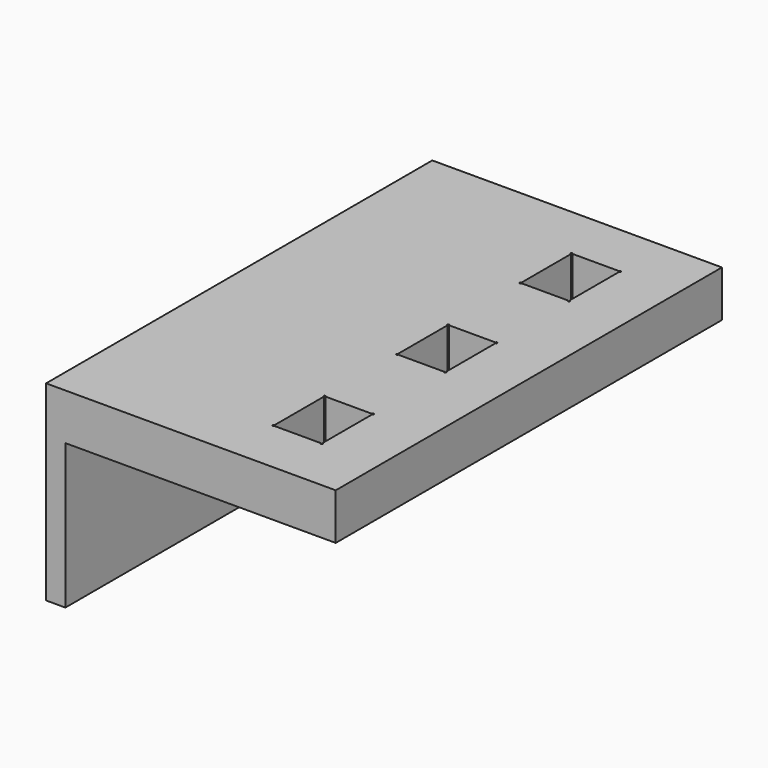
from build123d import *

# Parameters (mm, degrees)
F2_DEPTH = 50
F4_R     = 2
F5_DEPTH = 2
F6_DEPTH = 4.8


with BuildPart() as f2:
    # F1 (on Front) → F2 (new body)
    with BuildSketch(Plane.XZ):
        Polygon((0, 19.8), (0, 0), (2, 0), (2, 15), (30, 15), (30, 19.8), align=None)
    extrude(amount=-F2_DEPTH)

    # F4 (on face) → F5 (cut, through all)
    with BuildSketch(Plane(origin=(0, 0, 0), x_dir=(0, -1, 0), z_dir=(-1, 0, 0))):
        with Locations((-25, 10)):
            Circle(F4_R)
    extrude(amount=-F5_DEPTH, mode=Mode.SUBTRACT)

    # F3 (on face) → F6 (cut, through all)
    with BuildSketch(Plane.XY.offset(19.8)):
        with BuildLine():
            ThreePointArc((19, 21.8), (18.9292893219, 21.6292893219), (19.1, 21.7))
            Line((19.1, 21.7), (19, 21.7))
            Line((19, 21.7), (19, 21.8))
        make_face()
        with BuildLine():
            ThreePointArc((19, 21.8), (19.0707106781, 21.7707106781), (19.1, 21.7))
            Line((19.1, 21.7), (23.9, 21.7))
            ThreePointArc((23.9, 21.7), (23.9292893219, 21.7707106781), (24, 21.8))
            Line((24, 21.8), (24, 28.2))
            ThreePointArc((24, 28.2), (23.9292893219, 28.2292893219), (23.9, 28.3))
            Line((23.9, 28.3), (19.1, 28.3))
            ThreePointArc((19.1, 28.3), (19.0707106781, 28.2292893219), (19, 28.2))
            Line((19, 28.2), (19, 21.8))
        make_face()
        with BuildLine():
            Line((19, 21.7), (19.1, 21.7))
            ThreePointArc((19.1, 21.7), (19.0707106781, 21.7707106781), (19, 21.8))
            Line((19, 21.8), (19, 21.7))
        make_face()
        with BuildLine():
            ThreePointArc((24, 21.8), (23.9292893219, 21.7707106781), (23.9, 21.7))
            Line((23.9, 21.7), (24, 21.7))
            Line((24, 21.7), (24, 21.8))
        make_face()
        with BuildLine():
            Line((24, 21.7), (23.9, 21.7))
            ThreePointArc((23.9, 21.7), (24, 21.6), (24.1, 21.7))
            ThreePointArc((24.1, 21.7), (24.0707106781, 21.7707106781), (24, 21.8))
            Line((24, 21.8), (24, 21.7))
        make_face()
        with BuildLine():
            ThreePointArc((19.1, 28.3), (18.9292893219, 28.3707106781), (19, 28.2))
            Line((19, 28.2), (19, 28.3))
            Line((19, 28.3), (19.1, 28.3))
        make_face()
        with BuildLine():
            Line((19, 28.3), (19, 28.2))
            ThreePointArc((19, 28.2), (19.0707106781, 28.2292893219), (19.1, 28.3))
            Line((19.1, 28.3), (19, 28.3))
        make_face()
        with BuildLine():
            ThreePointArc((23.9, 28.3), (23.9292893219, 28.2292893219), (24, 28.2))
            Line((24, 28.2), (24, 28.3))
            Line((24, 28.3), (23.9, 28.3))
        make_face()
        with BuildLine():
            Line((24, 28.3), (24, 28.2))
            ThreePointArc((24, 28.2), (24.0707106781, 28.2292893219), (24.1, 28.3))
            ThreePointArc((24.1, 28.3), (24, 28.4), (23.9, 28.3))
            Line((23.9, 28.3), (24, 28.3))
        make_face()
        with BuildLine():
            ThreePointArc((19, 37.8), (18.9292893219, 37.6292893219), (19.1, 37.7))
            Line((19.1, 37.7), (19, 37.7))
            Line((19, 37.7), (19, 37.8))
        make_face()
        with BuildLine():
            ThreePointArc((19, 37.8), (19.0707106781, 37.7707106781), (19.1, 37.7))
            Line((19.1, 37.7), (23.9, 37.7))
            ThreePointArc((23.9, 37.7), (23.9292893219, 37.7707106781), (24, 37.8))
            Line((24, 37.8), (24, 44.2))
            ThreePointArc((24, 44.2), (23.9292893219, 44.2292893219), (23.9, 44.3))
            Line((23.9, 44.3), (19.1, 44.3))
            ThreePointArc((19.1, 44.3), (19.0707106781, 44.2292893219), (19, 44.2))
            Line((19, 44.2), (19, 37.8))
        make_face()
        with BuildLine():
            Line((19, 37.7), (19.1, 37.7))
            ThreePointArc((19.1, 37.7), (19.0707106781, 37.7707106781), (19, 37.8))
            Line((19, 37.8), (19, 37.7))
        make_face()
        with BuildLine():
            ThreePointArc((24, 37.8), (23.9292893219, 37.7707106781), (23.9, 37.7))
            Line((23.9, 37.7), (24, 37.7))
            Line((24, 37.7), (24, 37.8))
        make_face()
        with BuildLine():
            Line((24, 37.7), (23.9, 37.7))
            ThreePointArc((23.9, 37.7), (24, 37.6), (24.1, 37.7))
            ThreePointArc((24.1, 37.7), (24.0707106781, 37.7707106781), (24, 37.8))
            Line((24, 37.8), (24, 37.7))
        make_face()
        with BuildLine():
            ThreePointArc((19.1, 44.3), (18.9292893219, 44.3707106781), (19, 44.2))
            Line((19, 44.2), (19, 44.3))
            Line((19, 44.3), (19.1, 44.3))
        make_face()
        with BuildLine():
            Line((19, 44.3), (19, 44.2))
            ThreePointArc((19, 44.2), (19.0707106781, 44.2292893219), (19.1, 44.3))
            Line((19.1, 44.3), (19, 44.3))
        make_face()
        with BuildLine():
            Line((24, 44.3), (24, 44.2))
            ThreePointArc((24, 44.2), (24.0707106781, 44.2292893219), (24.1, 44.3))
            ThreePointArc((24.1, 44.3), (24, 44.4), (23.9, 44.3))
            Line((23.9, 44.3), (24, 44.3))
        make_face()
        with BuildLine():
            ThreePointArc((23.9, 44.3), (23.9292893219, 44.2292893219), (24, 44.2))
            Line((24, 44.2), (24, 44.3))
            Line((24, 44.3), (23.9, 44.3))
        make_face()
        with BuildLine():
            ThreePointArc((19, 12.2), (19.0707106781, 12.2292893219), (19.1, 12.3))
            Line((19.1, 12.3), (19, 12.3))
            Line((19, 12.3), (19, 12.2))
        make_face()
        with BuildLine():
            Line((19, 12.3), (19.1, 12.3))
            ThreePointArc((19.1, 12.3), (18.9292893219, 12.3707106781), (19, 12.2))
            Line((19, 12.2), (19, 12.3))
        make_face()
        with BuildLine():
            Line((23.9, 12.3), (19.1, 12.3))
            ThreePointArc((19.1, 12.3), (19.0707106781, 12.2292893219), (19, 12.2))
            Line((19, 12.2), (19, 5.8))
            ThreePointArc((19, 5.8), (19.0707106781, 5.7707106781), (19.1, 5.7))
            Line((19.1, 5.7), (23.9, 5.7))
            ThreePointArc((23.9, 5.7), (23.9292893219, 5.7707106781), (24, 5.8))
            Line((24, 5.8), (24, 12.2))
            ThreePointArc((24, 12.2), (23.9292893219, 12.2292893219), (23.9, 12.3))
        make_face()
        with BuildLine():
            ThreePointArc((24.1, 12.3), (24, 12.4), (23.9, 12.3))
            Line((23.9, 12.3), (24, 12.3))
            Line((24, 12.3), (24, 12.2))
            ThreePointArc((24, 12.2), (24.0707106781, 12.2292893219), (24.1, 12.3))
        make_face()
        with BuildLine():
            Line((24, 12.3), (23.9, 12.3))
            ThreePointArc((23.9, 12.3), (23.9292893219, 12.2292893219), (24, 12.2))
            Line((24, 12.2), (24, 12.3))
        make_face()
        with BuildLine():
            ThreePointArc((19.1, 5.7), (19.0707106781, 5.7707106781), (19, 5.8))
            Line((19, 5.8), (19, 5.7))
            Line((19, 5.7), (19.1, 5.7))
        make_face()
        with BuildLine():
            Line((19, 5.7), (19, 5.8))
            ThreePointArc((19, 5.8), (18.9292893219, 5.6292893219), (19.1, 5.7))
            Line((19.1, 5.7), (19, 5.7))
        make_face()
        with BuildLine():
            Line((24, 5.7), (24, 5.8))
            ThreePointArc((24, 5.8), (23.9292893219, 5.7707106781), (23.9, 5.7))
            Line((23.9, 5.7), (24, 5.7))
        make_face()
        with BuildLine():
            ThreePointArc((24.1, 5.7), (24.0707106781, 5.7707106781), (24, 5.8))
            Line((24, 5.8), (24, 5.7))
            Line((24, 5.7), (23.9, 5.7))
            ThreePointArc((23.9, 5.7), (24, 5.6), (24.1, 5.7))
        make_face()
    extrude(amount=-F6_DEPTH, mode=Mode.SUBTRACT)


solid = f2.part
